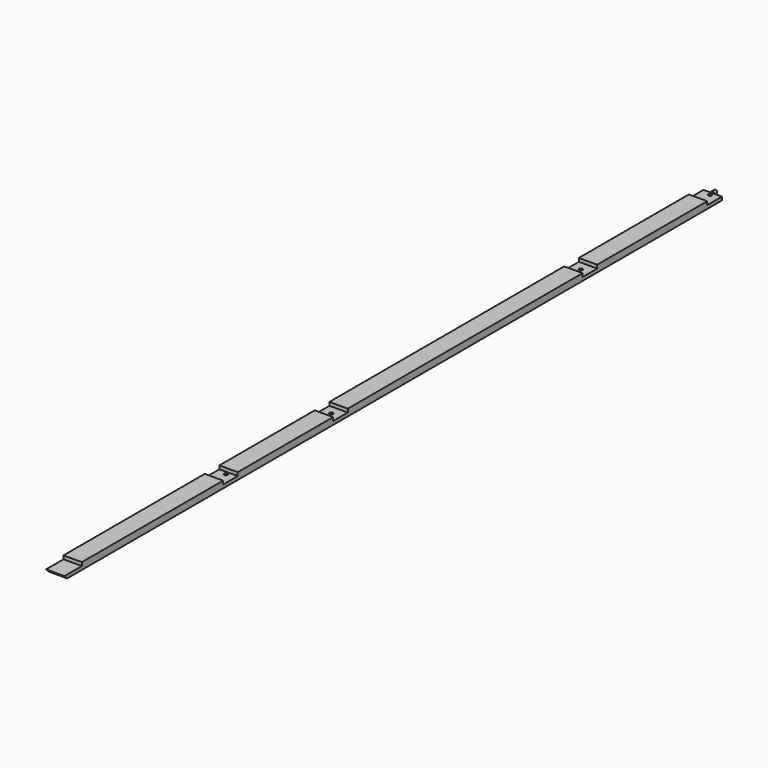
from build123d import *

# Parameters (mm, degrees)
F1_DEPTH = 25.4
F3_R     = 4.7625
F4_DEPTH = 9.525
F5_R     = 4.7625
F6_DEPTH = 25.4


with BuildPart() as f1:
    # F0 (on Right) → F1 (new body, symmetric)
    with BuildSketch(Plane.YZ):
        Polygon((-33.290768, -9.525), (2133.6, -9.525), (2133.6, 0), (2082.8, 0), (2082.8, 9.525), (1701.8, 9.525), (1701.8, 0), (1651, 0), (1651, 9.525), (838.2, 9.525), (838.2, 0), (787.4, 0), (787.4, 9.525), (457.2, 9.525), (457.2, 0), (406.4, 0), (406.4, 9.525), (0, 9.525), (-82.55, 9.525), (-82.55, 0), (-142.875, 0), (-133.35, -9.525), align=None)
    extrude(amount=F1_DEPTH, both=True)

    # F3 (on offset) → F4 (join)
    with BuildSketch(Plane.XZ.offset(-2133.6)):
        Circle(F3_R)
    extrude(amount=-F4_DEPTH)

    # F5 (on Top) → F6 (cut)
    with BuildSketch(Plane.XY):
        with Locations((0, 447.675)):
            Circle(F5_R)
        with Locations((0, 812.8)):
            Circle(F5_R)
        with Locations((0, 1676.4)):
            Circle(F5_R)
        with Locations((0, 2124.075)):
            Circle(F5_R)
    extrude(amount=-F6_DEPTH, mode=Mode.SUBTRACT)


solid = f1.part
